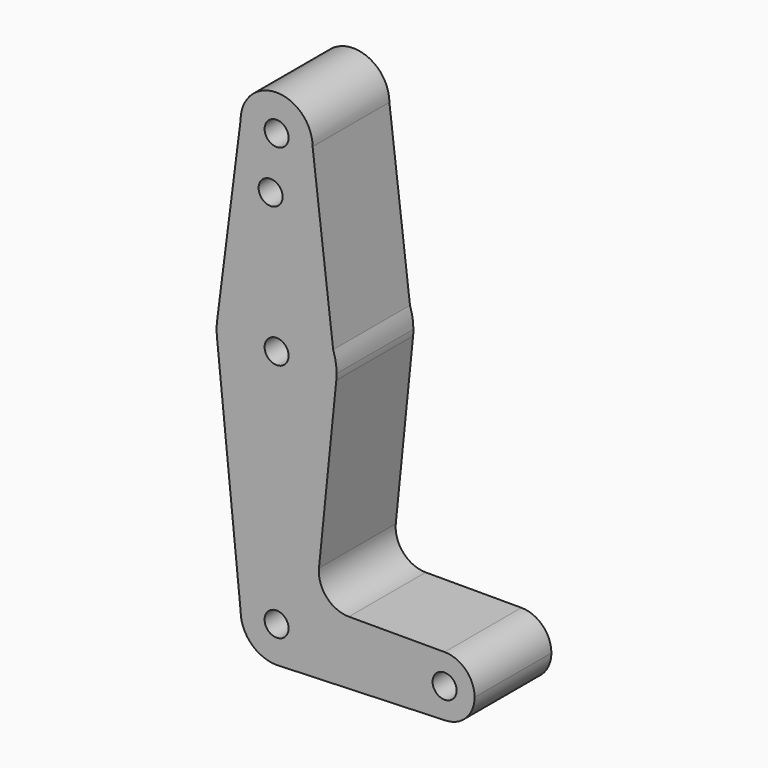
from build123d import *

# Parameters (mm, degrees)
F0_R     = 3.175
F1_DEPTH = 25.4


with BuildPart() as f1:
    # F0 (on Front) → F1 (new body)
    with BuildSketch(Plane.XZ):
        with BuildLine():
            ThreePointArc((-9.525, 114.3), (0, 104.775), (9.525, 114.3))
            ThreePointArc((9.525, 114.3), (0, 123.825), (-9.525, 114.3))
        make_face()
        with Locations((0, 114.3)):
            Circle(F0_R, mode=Mode.SUBTRACT)
        with BuildLine():
            Line((14.971058, 68.780441), (9.525, 114.3))
            ThreePointArc((9.525, 114.3), (0, 104.775), (-9.525, 114.3))
            Line((-9.525, 114.3), (-15.747457, 65.508289))
            ThreePointArc((-15.747457, 65.508289), (-1.6815, 79.285695), (14.971058, 68.780441))
        make_face()
        with Locations((-1.5875, 100.0252)):
            Circle(F0_R, mode=Mode.SUBTRACT)
        with BuildLine():
            Line((15.794203, 61.90038), (14.971058, 68.780441))
            ThreePointArc((14.971058, 68.780441), (-1.6815, 79.285695), (-15.747457, 65.508289))
            ThreePointArc((-15.747457, 65.508289), (-15.873668, 63.705667), (-15.794203, 61.90038))
            ThreePointArc((-15.794203, 61.90038), (0, 47.625), (15.794203, 61.90038))
        make_face()
        with Locations((0, 63.5)):
            Circle(F0_R, mode=Mode.SUBTRACT)
        with BuildLine():
            ThreePointArc((15.875, 63.5), (15.647383, 66.178627), (14.971058, 68.780441))
            Line((14.971058, 68.780441), (15.794203, 61.90038))
            ThreePointArc((15.794203, 61.90038), (15.854788, 62.699171), (15.875, 63.5))
        make_face()
        with BuildLine():
            Line((11.215222, 16.688789), (15.794203, 61.90038))
            ThreePointArc((15.794203, 61.90038), (0, 47.625), (-15.794203, 61.90038))
            Line((-15.794203, 61.90038), (-9.525, 0))
            ThreePointArc((-9.525, 0), (-6.735192, 6.735192), (0, 9.525))
            ThreePointArc((0, 9.525), (0.338886, 9.51897), (0.677344, 9.500886))
            ThreePointArc((0.677344, 9.500886), (6.970557, 6.491299), (9.525, 0))
            ThreePointArc((9.525, 0), (6.970557, -6.491299), (0.677344, -9.500886))
            Line((0.677344, -9.500886), (44.732405, -7.932475))
            ThreePointArc((44.732405, -7.932475), (36.513756, -0.141225), (44.45, 7.9375))
            Line((44.45, 7.9375), (19.124959, 7.9375))
            ThreePointArc((19.124959, 7.9375), (13.226887, 10.556806), (11.215222, 16.688789))
        make_face()
        with BuildLine():
            ThreePointArc((0, 9.525), (-6.735192, 6.735192), (-9.525, 0))
            ThreePointArc((-9.525, 0), (-6.735192, -6.735192), (0, -9.525))
            Line((0, -9.525), (0.677344, -9.500886))
            ThreePointArc((0.677344, -9.500886), (6.970557, -6.491299), (9.525, 0))
            ThreePointArc((9.525, 0), (6.970557, 6.491299), (0.677344, 9.500886))
            Line((0.677344, 9.500886), (0, 9.525))
        make_face()
        Circle(F0_R, mode=Mode.SUBTRACT)
        with BuildLine():
            Line((0.677344, -9.500886), (0, -9.525))
            ThreePointArc((0, -9.525), (0.338886, -9.51897), (0.677344, -9.500886))
        make_face()
        with BuildLine():
            ThreePointArc((52.3875, 0), (50.06266, 5.61266), (44.45, 7.9375))
            ThreePointArc((44.45, 7.9375), (36.513756, -0.141225), (44.732405, -7.932475))
            ThreePointArc((44.732405, -7.932475), (50.161633, -5.51191), (52.3875, 0))
        make_face()
        with Locations((44.45, 0)):
            Circle(F0_R, mode=Mode.SUBTRACT)
    extrude(amount=F1_DEPTH)


solid = f1.part
